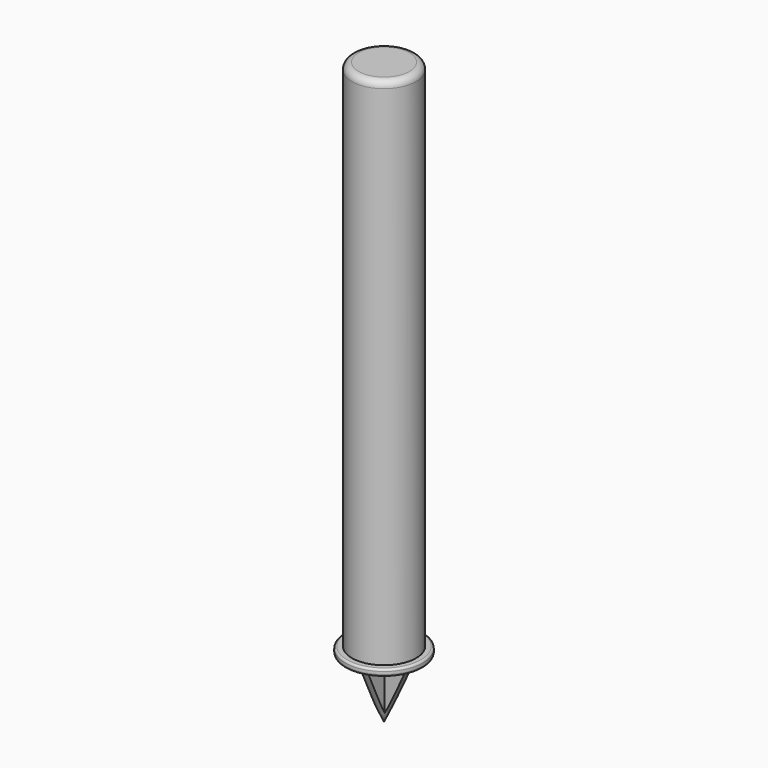
from build123d import *

# Parameters (mm, degrees)
F0_R     = 4.7625
F1_DEPTH = 76.2
F2_R     = 5.7625
F3_DEPTH = 1
F7_DEPTH = 25
F8_R     = 1
F9_R     = 0.3


with BuildPart() as f1:
    # F0 (on Top) → F1 (new body)
    with BuildSketch(Plane.XY):
        Circle(F0_R)
    extrude(amount=F1_DEPTH)

    # F2 (on Top) → F3 (join)
    with BuildSketch(Plane.XY):
        Circle(F2_R)
    extrude(amount=-F3_DEPTH)

    # F4 (on Right) → F5 (revolve)
    with BuildSketch(Plane.YZ):
        Polygon((0, -9.871884), (0, -0.956255), (-4.070698, -0.956255), align=None)
    revolve(axis=Axis((0, 0, -5.41407), (0, 0, -1)))

    # F6 (on face) → F7 (cut)
    with BuildSketch(Plane(origin=(0, 0, -1), x_dir=(1, 0, 0), z_dir=(0, 0, -1))):
        with BuildLine():
            Line((0.5, -0.5), (0.5, -4.050725))
            ThreePointArc((0.5, -4.050725), (2.886033, -2.886033), (4.050725, -0.5))
            Line((4.050725, -0.5), (0.5, -0.5))
        make_face()
        with BuildLine():
            ThreePointArc((-4.050725, -0.5), (-2.886033, -2.886033), (-0.5, -4.050725))
            Line((-0.5, -4.050725), (-0.5, -0.5))
            Line((-0.5, -0.5), (-4.050725, -0.5))
        make_face()
        with BuildLine():
            ThreePointArc((-0.5, 4.050725), (-2.886033, 2.886033), (-4.050725, 0.5))
            Line((-4.050725, 0.5), (-0.5, 0.5))
            Line((-0.5, 0.5), (-0.5, 4.050725))
        make_face()
        with BuildLine():
            Line((0.5, 4.050725), (0.5, 0.5))
            Line((0.5, 0.5), (4.050725, 0.5))
            ThreePointArc((4.050725, 0.5), (2.886033, 2.886033), (0.5, 4.050725))
        make_face()
    extrude(amount=F7_DEPTH, mode=Mode.SUBTRACT)

    # F8
    f8_edges = [f1.edges().sort_by_distance(p)[0] for p in [
        (-4.7625, 0, 76.2),
    ]]
    fillet(f8_edges, radius=F8_R)

    # F9
    f9_edges = [f1.edges().sort_by_distance(p)[0] for p in [
        (-5.7625, 0, 0),
        (-5.7625, 0, -1),
    ]]
    fillet(f9_edges, radius=F9_R)


solid = f1.part
